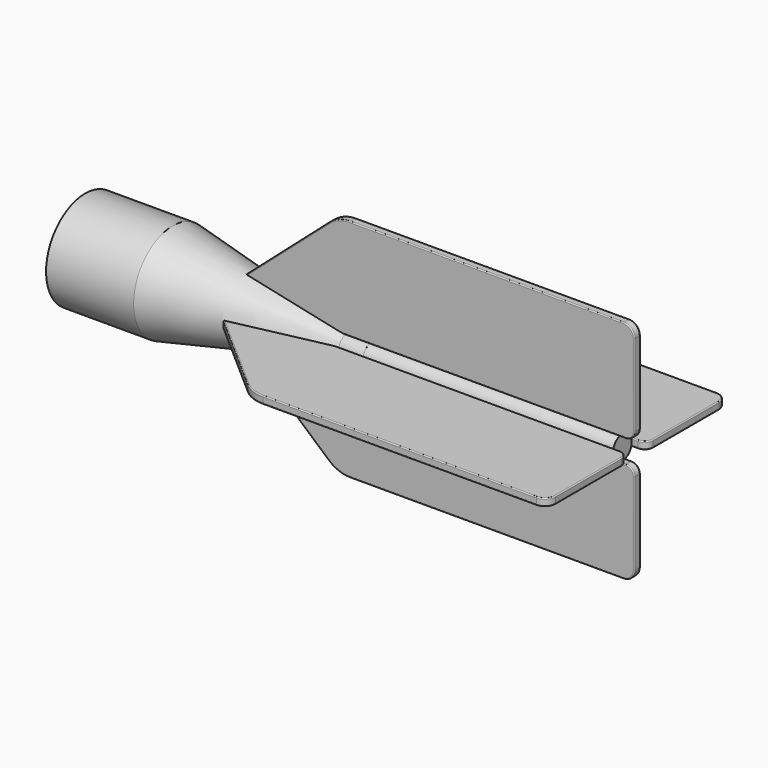
from build123d import *

# Parameters (mm, degrees)
POCKET_DEPTH       = 5
SKETCH003_R        = 2.35684
PAD_DEPTH          = 50
PAD001_DEPTH       = 0.75
POLARPATTERN_COUNT = 4
FILLET_R           = 0.2
FILLET001_R        = 0.2
FILLET002_R        = 0.2
FILLET003_R        = 0.2


with BuildPart() as part:
    # Sketch → Revolution (revolve)
    with BuildSketch(Plane(origin=(0, 0, -11), x_dir=(1, 0, 0), z_dir=(0, -1, 0))):
        Polygon((0.972993, 20.787131), (0.972993, 19.830843), (1.394372, 19.830843), (1.394372, 18.515368), (1.560666, 18.515368), (2.060712, 19.224604), (2.060712, 19.830843), (18.072832, 19.830843), (19.716526, 17.696983), (51.49464, 11.586367), (58.33868, 11.586367), (58.33868, 13.36224), (53.468026, 13.36224), (18.477287, 20.787131), align=None)
    revolve(axis=Axis((0, 0, 0), (1, 0, 0)))

    # Sketch001 (on Face4 of Revolution) → Pocket (cut)
    with BuildSketch(Plane(origin=(1.394372, 0, 0), x_dir=(0, 0, -1), z_dir=(-1, 0, 0))):
        with BuildLine():
            ThreePointArc((1.205844, 8.707899), (0, 8.790993), (-1.205844, 8.707899))
            Line((-1.205844, -8.707899), (-1.205844, 8.707899))
            ThreePointArc((-1.205844, -8.707899), (0, -8.790993), (1.205844, -8.707899))
            Line((1.205844, 8.707899), (1.205844, -8.707899))
        make_face()
    extrude(amount=-POCKET_DEPTH, mode=Mode.SUBTRACT)

    # Sketch003 (on Face7 of Pocket) → Pad (join)
    with BuildSketch(Plane(origin=(58.33868, 0, 0), x_dir=(0, 0, 1), z_dir=(1, 0, 0))):
        Circle(SKETCH003_R)
    extrude(amount=PAD_DEPTH)

    # Sketch004 → Pad001 (join, symmetric)
    with BuildSketch(Plane.XZ):
        with BuildLine():
            Line((33.768264, 6.474145), (50.238549, 20.93763))
            ThreePointArc((54.511942, 22.547648), (52.22863, 22.131792), (50.238549, 20.93763))
            Line((54.511942, 22.547648), (109.167778, 22.547648))
            ThreePointArc((111.327756, 20.38767), (110.695113, 21.915005), (109.167778, 22.547648))
            Line((111.327756, 20.38767), (111.327756, 3.979669))
            ThreePointArc((109.633497, 2.285409), (110.831519, 2.781646), (111.327756, 3.979669))
            Line((109.633497, 2.285409), (53.497932, 2.285409))
            Line((53.497932, 2.285409), (33.768264, 6.474145))
        make_face()
    pad001 = extrude(amount=PAD001_DEPTH, both=True)

    # PolarPattern: Pad001 ×4 about axis
    polarpattern_axis = Axis((0, 0, 0), (1, 0, 0))
    for i in range(1, POLARPATTERN_COUNT):
        add(pad001.rotate(polarpattern_axis, i * 360 / POLARPATTERN_COUNT))

    # Fillet
    fillet_edges = [part.edges().sort_by_distance(p)[0] for p in [
        (42.014935, 0.75, 13.716012),
        (42.014935, -0.75, 13.716012),
        (52.22863, -0.75, 22.131792),
        (52.22863, 0.75, 22.131792),
        (33.820977, 0.375921, 6.520436),
        (33.820977, -0.375921, 6.520436),
        (81.83986, -0.75, 22.547648),
        (81.83986, 0.75, 22.547648),
        (110.695113, -0.75, 21.915005),
        (110.695113, 0.75, 21.915005),
        (111.327756, -0.75, 12.183669),
        (110.831519, -0.75, 2.781646),
        (81.565714, -0.75, 2.285409),
        (81.565714, 0.75, 2.285409),
        (110.831519, 0.75, 2.781646),
        (111.327756, 0.75, 12.183669),
    ]]
    fillet(fillet_edges, radius=FILLET_R)

    # Fillet001
    fillet001_edges = [part.edges().sort_by_distance(p)[0] for p in [
        (81.565714, -2.285409, -0.75),
        (110.831519, -2.781646, -0.75),
        (81.565714, -2.285409, 0.75),
        (110.831519, -2.781646, 0.75),
        (111.327756, -12.183669, 0.75),
        (111.327756, -12.183669, -0.75),
    ]]
    fillet(fillet001_edges, radius=FILLET001_R)

    # Fillet002
    fillet002_edges = [part.edges().sort_by_distance(p)[0] for p in [
        (81.565714, -0.75, -2.285409),
        (81.565714, 0.75, -2.285409),
        (110.831519, 0.75, -2.781646),
        (110.831519, -0.75, -2.781646),
        (111.327756, -0.75, -12.183669),
        (111.327756, 0.75, -12.183669),
    ]]
    fillet(fillet002_edges, radius=FILLET002_R)

    # Fillet003
    fillet003_edges = [part.edges().sort_by_distance(p)[0] for p in [
        (81.565714, 2.285409, 0.75),
        (81.565714, 2.285409, -0.75),
        (110.831519, 2.781646, -0.75),
        (111.327756, 12.183669, -0.75),
        (111.327756, 12.183669, 0.75),
        (110.831519, 2.781646, 0.75),
    ]]
    fillet(fillet003_edges, radius=FILLET003_R)


solid = part.part
